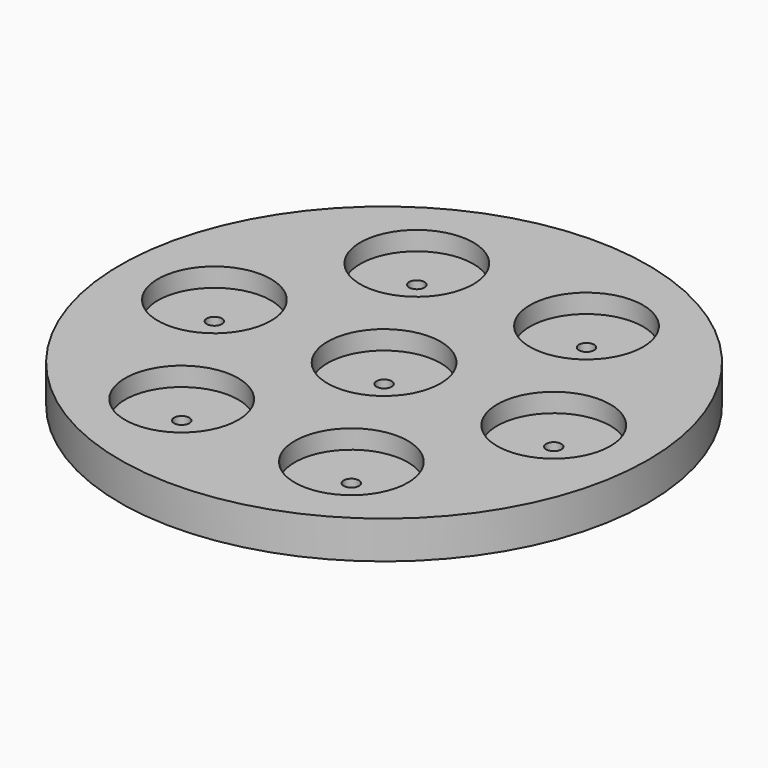
from build123d import *

# Parameters (mm, degrees)
F0_R     = 44.45
F1_DEPTH = 6.35
F2_R     = 9.525
F3_DEPTH = 3.175
F4_R     = 1.2827
F5_DEPTH = 25.4


with BuildPart() as f1:
    # F0 (on Top) → F1 (new body)
    with BuildSketch(Plane.XY):
        Circle(F0_R)
    extrude(amount=F1_DEPTH)

    # F2 (on face) → F3 (cut)
    with BuildSketch(Plane.XY.offset(6.35)):
        with Locations((-28.575, 0)):
            Circle(F2_R)
        with Locations((-14.2875, 24.746676)):
            Circle(F2_R)
        with Locations((14.2875, 24.746676)):
            Circle(F2_R)
        with Locations((28.575, 0)):
            Circle(F2_R)
        Circle(F2_R)
        with Locations((14.2875, -24.746676)):
            Circle(F2_R)
        with Locations((-14.2875, -24.746676)):
            Circle(F2_R)
    extrude(amount=-F3_DEPTH, mode=Mode.SUBTRACT)

    # F4 (on face) → F5 (cut)
    with BuildSketch(Plane.XY.offset(6.35)):
        with Locations((28.575, 0)):
            Circle(F4_R)
        Circle(F4_R)
        with Locations((-14.2875, 24.746676)):
            Circle(F4_R)
        with Locations((14.2875, 24.746676)):
            Circle(F4_R)
        with Locations((-28.575, 0)):
            Circle(F4_R)
        with Locations((-14.2875, -24.746676)):
            Circle(F4_R)
        with Locations((14.2875, -24.746676)):
            Circle(F4_R)
    extrude(amount=-F5_DEPTH, mode=Mode.SUBTRACT)


solid = f1.part
